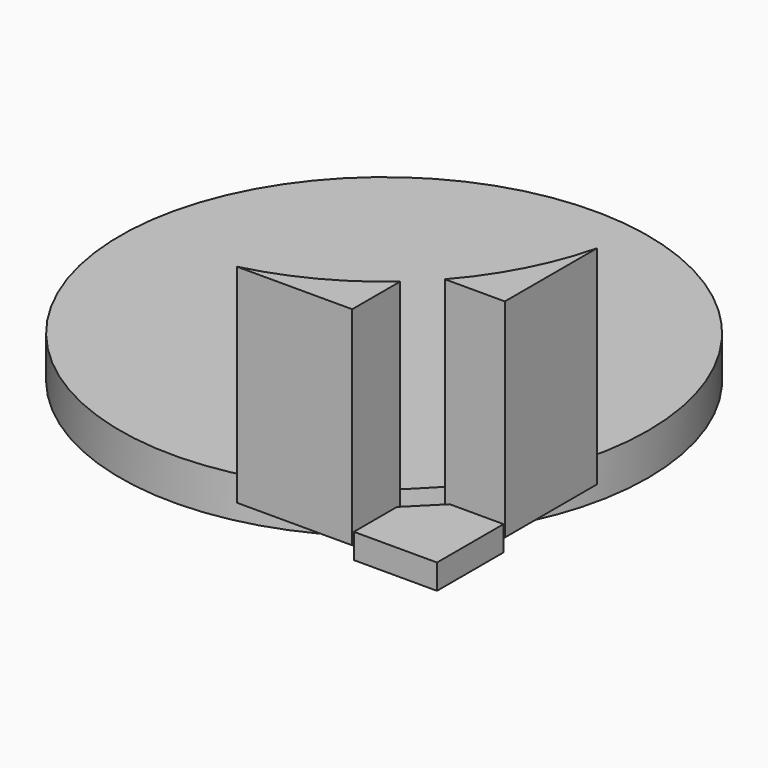
from build123d import *

# Parameters (mm, degrees)
F0_R     = 31.75
F1_DEPTH = 2.5
F3_DEPTH = 1.5
F4_DEPTH = 25


with BuildPart() as f1:
    # F0 (on Top) → F1 (new body, symmetric)
    with BuildSketch(Plane.XY):
        with Locations((-31.8198051534, 31.8198051534)):
            Circle(F0_R)
    extrude(amount=F1_DEPTH, both=True)


with BuildPart() as f3:
    # F2 (on Top) → F3 (new body, symmetric)
    with BuildSketch(Plane.XY):
        Polygon((-10, 0), (0, 0), (0, 10), (-6.475, 10), (-10, 6.475), align=None)
    extrude(amount=F3_DEPTH, both=True)


with BuildPart() as f4:
    # F2 (on Top) → F4 (new body)
    with BuildSketch(Plane.XY):
        with BuildLine():
            ThreePointArc((-10.2000003681, 7.2200741987), (-16.6976711615, 2.770127263), (-24.0697908307, 0))
            Line((-24.0697908307, 0), (-10.2000003681, 0))
            Line((-10.2000003681, 0), (-10.2000003681, 7.2200741987))
        make_face()
    extrude(amount=F4_DEPTH)


with BuildPart() as f4b:
    # F2 (on Top) → F4, piece 2 (new body)
    with BuildSketch(Plane.XY):
        with BuildLine():
            Line((-7.2200741987, 10.2000003681), (0, 10.2000003681))
            Line((0, 10.2000003681), (0, 24.0697908307))
            ThreePointArc((0, 24.0697908307), (-2.770127263, 16.6976711615), (-7.2200741987, 10.2000003681))
        make_face()
    extrude(amount=F4_DEPTH)


solid = Compound([f1.part, f3.part, f4.part, f4b.part])
